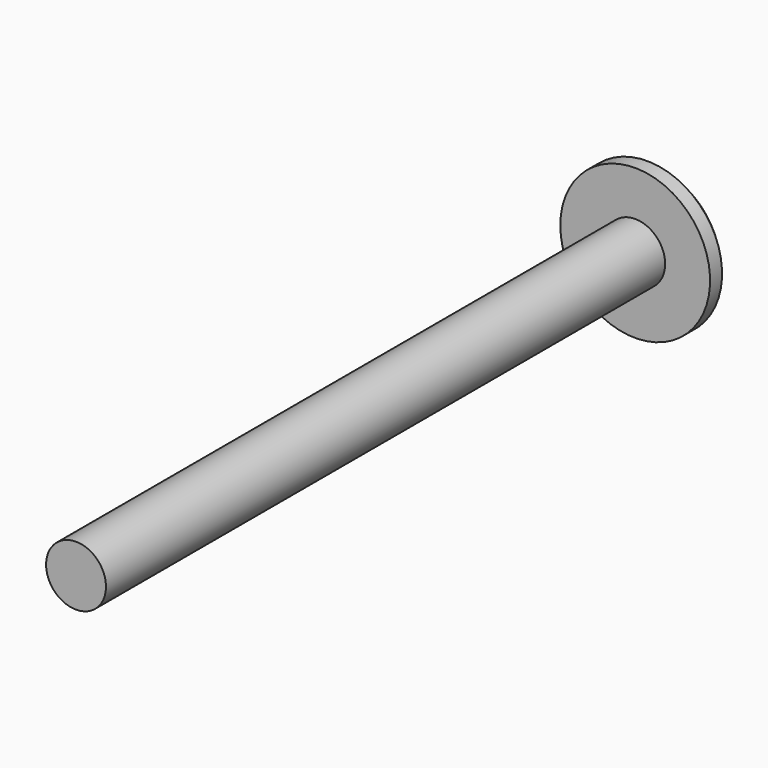
from build123d import *

# Parameters (mm, degrees)
SKETCH090_R             = 7.5
PAD060_DEPTH            = 2.5
CHAMFER_SIZE            = 1
POCKET022_DEPTH         = 2
SKETCH092_R             = 3
PAD061_DEPTH            = 70
BODY051_PLACEMENT_ANGLE = 90
BODY052_PLACEMENT_ANGLE = 180


with BuildPart() as part:
    # Sketch090 → Pad060 (new body)
    with BuildSketch(Plane.XY):
        Circle(SKETCH090_R)
    extrude(amount=PAD060_DEPTH)

    # Chamfer
    chamfer_edges = [part.edges().sort_by_distance(p)[0] for p in [
        (-7.5, 0, 2.5),
    ]]
    chamfer(chamfer_edges, length=CHAMFER_SIZE)

    # Sketch091 (on Face4 of Chamfer) → Pocket022 (cut)
    with BuildSketch(Plane.XY.offset(2.5)):
        Polygon((1.154701, 2), (-1.154701, 2), (-2.309401, 0), (-1.154701, -2), (1.154701, -2), (2.309401, 0), align=None)
    extrude(amount=-POCKET022_DEPTH, mode=Mode.SUBTRACT)

    # Sketch092 (on Face3 of Pocket022) → Pad061 (join)
    with BuildSketch(Plane(origin=(0, 0, 0), x_dir=(1, 0, 0), z_dir=(0, 0, -1))):
        Circle(SKETCH092_R)
    extrude(amount=PAD061_DEPTH)


with BuildPart() as part_1:
    # Body051 placement: moved
    add(part.part.moved(Location((0, 37, 101))).rotate(Axis((0, 37, 101), (1, 0, 0)), BODY051_PLACEMENT_ANGLE))


with BuildPart() as part_2:
    # Body052 placement: moved
    add(part_1.part.rotate(Axis((0, 0, 0), (0, 0, 1)), BODY052_PLACEMENT_ANGLE))


solid = part_2.part
